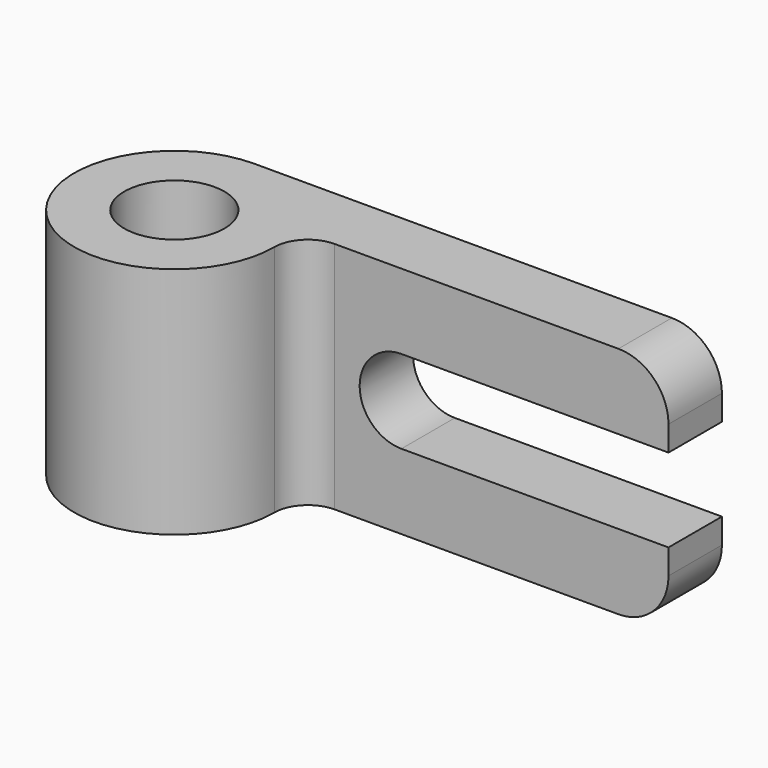
from build123d import *

# Parameters (mm, degrees)
F0_R     = 9.525
F1_DEPTH = 44.45
F3_DEPTH = 12.7


with BuildPart() as f1:
    # F0 (on Top) → F1 (new body)
    with BuildSketch(Plane.XY):
        with BuildLine():
            Line((-63.5, 0), (0, 0))
            Line((0, 0), (0, 12.7))
            Line((0, 12.7), (-88.9, 12.7))
            ThreePointArc((-88.9, 12.7), (-102.370384, -19.820384), (-69.85, -6.35))
            ThreePointArc((-69.85, -6.35), (-67.990128, -1.859872), (-63.5, 0))
        make_face()
        with Locations((-88.9, -6.35)):
            Circle(F0_R, mode=Mode.SUBTRACT)
    extrude(amount=F1_DEPTH)

    # F2 (on face) → F3 (cut)
    with BuildSketch(Plane.XZ):
        with BuildLine():
            Line((0, 14.2875), (0, 30.1625))
            Line((0, 30.1625), (-50.8, 30.1625))
            ThreePointArc((-50.8, 30.1625), (-58.7375, 22.225), (-50.8, 14.2875))
            Line((-50.8, 14.2875), (0, 14.2875))
        make_face()
        with BuildLine():
            Line((0, 0), (0, 9.525))
            ThreePointArc((0, 9.525), (-2.789808, 2.789808), (-9.525, 0))
            Line((-9.525, 0), (0, 0))
        make_face()
        with BuildLine():
            Line((0, 44.45), (-9.525, 44.45))
            ThreePointArc((-9.525, 44.45), (-2.789808, 41.660192), (0, 34.925))
            Line((0, 34.925), (0, 44.45))
        make_face()
    extrude(amount=-F3_DEPTH, mode=Mode.SUBTRACT)


solid = f1.part
